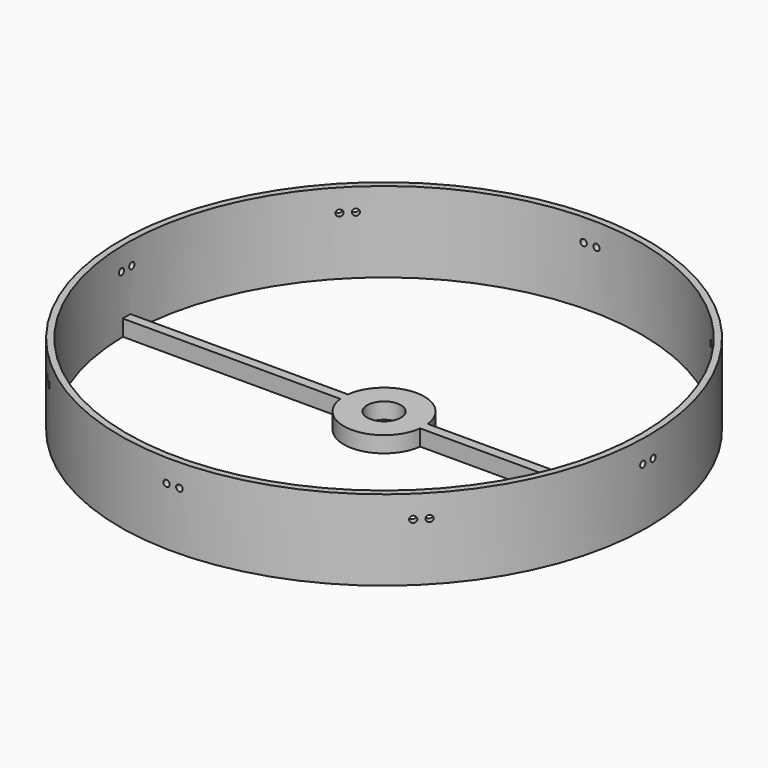
from build123d import *

# Parameters (mm, degrees)
SKETCH_R              = 82
SKETCH_R_2            = 80
PAD_DEPTH             = 25
PAD001_DEPTH          = 5
SKETCH002_R           = 1
POCKET_DEPTH          = 5
POLARPATTERN_COUNT    = 8
SKETCH004_R           = 82
SKETCH004_R_2         = 80
PAD003_DEPTH          = 25
PAD002_DEPTH          = 3
SKETCH005_R           = 82
SKETCH005_R_2         = 80
POCKET001_DEPTH       = 25
SKETCH008_R           = 82
SKETCH008_R_2         = 80
PAD004_DEPTH          = 25
PAD005_DEPTH          = 5
SKETCH007_R           = 1
POCKET002_DEPTH       = 5
POLARPATTERN001_COUNT = 8
SKETCH009_R           = 12.5
SKETCH009_R_2         = 5.25
PAD006_DEPTH          = 5


with BuildPart() as bottom:
    # Sketch → Pad (new body)
    with BuildSketch(Plane.XY):
        Circle(SKETCH_R)
        Circle(SKETCH_R_2, mode=Mode.SUBTRACT)
    extrude(amount=PAD_DEPTH)

    # Sketch001 (on Face3 of Pad) → Pad001 (join)
    with BuildSketch(Plane(origin=(0, 0, 0), x_dir=(1, 0, 0), z_dir=(0, 0, -1))):
        with BuildLine():
            ThreePointArc((-12.409674, -1.5), (0, -12.5), (12.409674, -1.5))
            Line((12.409674, -1.5), (79.985936, -1.5))
            ThreePointArc((79.985936, -1.5), (80, 0), (79.985936, 1.5))
            Line((9.380832, 1.5), (79.985936, 1.5))
            ThreePointArc((-9.380832, 1.5), (0, -9.5), (9.380832, 1.5))
            Line((-79.985936, 1.5), (-9.380832, 1.5))
            ThreePointArc((-79.985936, 1.5), (-80, 0), (-79.985936, -1.5))
            Line((-12.409674, -1.5), (-79.985936, -1.5))
        make_face()
    extrude(amount=-PAD001_DEPTH)

    # Sketch002 (on DatumPlane) → Pocket (cut)
    with BuildSketch(Plane.XZ.offset(82)):
        with Locations((-2, 18)):
            Circle(SKETCH002_R)
        with Locations((2, 18)):
            Circle(SKETCH002_R)
    pocket = extrude(amount=-POCKET_DEPTH, mode=Mode.SUBTRACT)

    # PolarPattern: Pocket ×8 about axis
    polarpattern_axis = Axis((0, 0, 0), (0, 0, 1))
    for i in range(1, POLARPATTERN_COUNT):
        add(pocket.rotate(polarpattern_axis, i * 360 / POLARPATTERN_COUNT), mode=Mode.SUBTRACT)


with BuildPart() as middle:
    # Sketch004 → Pad003 (new body)
    with BuildSketch(Plane.XY):
        Circle(SKETCH004_R)
        Circle(SKETCH004_R_2, mode=Mode.SUBTRACT)
    extrude(amount=PAD003_DEPTH)

    # Sketch003 (on Face3 of Pad003) → Pad002 (join)
    with BuildSketch(Plane(origin=(0, 0, 0), x_dir=(1, 0, 0), z_dir=(0, 0, -1))):
        with BuildLine():
            ThreePointArc((-12.409674, -1.5), (0, -12.5), (12.409674, -1.5))
            Line((12.409674, -1.5), (79.985936, -1.5))
            ThreePointArc((79.985936, -1.5), (80, 0), (79.985936, 1.5))
            Line((9.380832, 1.5), (79.985936, 1.5))
            ThreePointArc((-9.380832, 1.5), (0, -9.5), (9.380832, 1.5))
            Line((-79.985936, 1.5), (-9.380832, 1.5))
            ThreePointArc((-79.985936, 1.5), (-80, 0), (-79.985936, -1.5))
            Line((-12.409674, -1.5), (-79.985936, -1.5))
        make_face()
    extrude(amount=-PAD002_DEPTH)

    # Sketch005 (on Face3 of Pad002) → Pocket001 (cut)
    with BuildSketch(Plane.XY.offset(25)):
        Circle(SKETCH005_R)
        Circle(SKETCH005_R_2, mode=Mode.SUBTRACT)
    extrude(amount=-POCKET001_DEPTH, mode=Mode.SUBTRACT)


with BuildPart() as top:
    # Sketch008 → Pad004 (new body)
    with BuildSketch(Plane.XY):
        Circle(SKETCH008_R)
        Circle(SKETCH008_R_2, mode=Mode.SUBTRACT)
    extrude(amount=PAD004_DEPTH)

    # Sketch006 (on Face3 of Pad004) → Pad005 (join)
    with BuildSketch(Plane(origin=(0, 0, 0), x_dir=(1, 0, 0), z_dir=(0, 0, -1))):
        with BuildLine():
            ThreePointArc((-12.409674, -1.5), (0, -12.5), (12.409674, -1.5))
            Line((12.409674, -1.5), (79.985936, -1.5))
            ThreePointArc((79.985936, -1.5), (80, 0), (79.985936, 1.5))
            Line((9.380832, 1.5), (79.985936, 1.5))
            ThreePointArc((-9.380832, 1.5), (0, -9.5), (9.380832, 1.5))
            Line((-79.985936, 1.5), (-9.380832, 1.5))
            ThreePointArc((-79.985936, 1.5), (-80, 0), (-79.985936, -1.5))
            Line((-12.409674, -1.5), (-79.985936, -1.5))
        make_face()
    extrude(amount=-PAD005_DEPTH)

    # Sketch007 (on DatumPlane) → Pocket002 (cut)
    with BuildSketch(Plane.XZ.offset(82)):
        with Locations((-2, 18)):
            Circle(SKETCH007_R)
        with Locations((2, 18)):
            Circle(SKETCH007_R)
    pocket002 = extrude(amount=-POCKET002_DEPTH, mode=Mode.SUBTRACT)

    # PolarPattern001: Pocket002 ×8 about axis
    polarpattern001_axis = Axis((0, 0, 0), (0, 0, 1))
    for i in range(1, POLARPATTERN001_COUNT):
        add(pocket002.rotate(polarpattern001_axis, i * 360 / POLARPATTERN001_COUNT), mode=Mode.SUBTRACT)

    # Sketch009 (on Face23 of PolarPattern001) → Pad006 (join)
    with BuildSketch(Plane.XY.offset(5)):
        Circle(SKETCH009_R)
        Circle(SKETCH009_R_2, mode=Mode.SUBTRACT)
    extrude(amount=-PAD006_DEPTH)


solid = Compound([bottom.part, middle.part, top.part])
